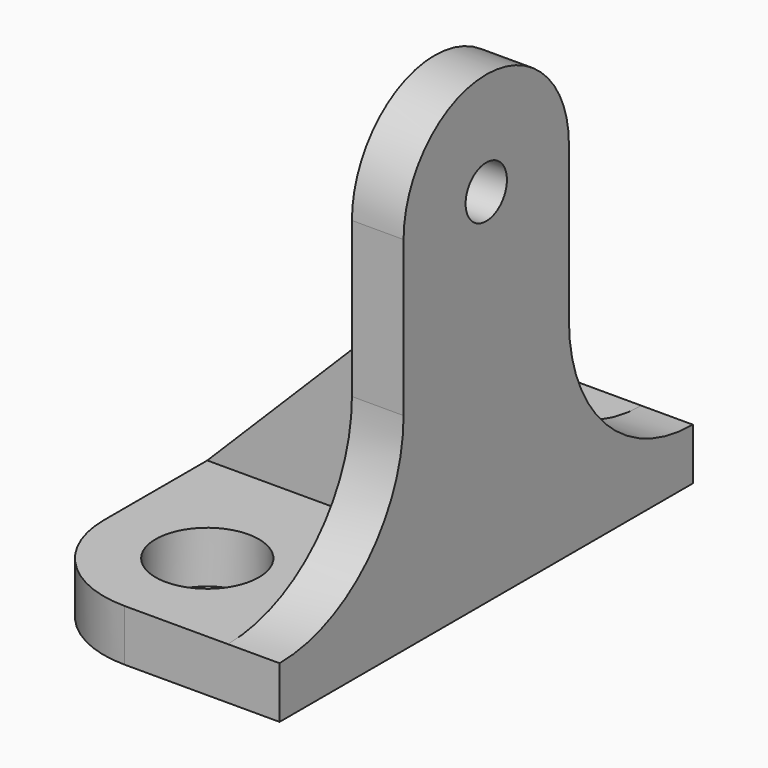
from build123d import *

# Parameters (mm, degrees)
SKETCH002_R  = 5
PAD001_DEPTH = 5
SKETCH003_R  = 2.5
PAD002_DEPTH = 5
PAD003_DEPTH = 2.5


with BuildPart() as part:
    # Sketch002 → Pad001 (new body)
    with BuildSketch(Plane.XY):
        with BuildLine():
            Line((0, 25), (-15, 25))
            ThreePointArc((-15, 25), (-22.071068, 22.071068), (-25, 15))
            Line((-25, 15), (-25, -15))
            ThreePointArc((-25, -15), (-22.071068, -22.071068), (-15, -25))
            Line((-15, -25), (0, -25))
            Line((0, -25), (0, 25))
        make_face()
        with Locations((-15, 15)):
            Circle(SKETCH002_R, mode=Mode.SUBTRACT)
        with Locations((-15, -15)):
            Circle(SKETCH002_R, mode=Mode.SUBTRACT)
    extrude(amount=PAD001_DEPTH)

    # Sketch003 → Pad002 (join)
    with BuildSketch(Plane.YZ):
        with BuildLine():
            ThreePointArc((-25, 5), (-14.393398, 9.393398), (-10, 20))
            Line((-10, 20), (-10, 35))
            ThreePointArc((10, 35), (0, 45), (-10, 35))
            Line((10, 20), (10, 35))
            ThreePointArc((10, 20), (14.393398, 9.393398), (25, 5))
            Line((-25, 5), (25, 5))
        make_face()
        with Locations((0, 35)):
            Circle(SKETCH003_R, mode=Mode.SUBTRACT)
    extrude(amount=-PAD002_DEPTH)

    # Sketch004 → Pad003 (join, symmetric)
    with BuildSketch(Plane.XZ):
        Polygon((-25, 5), (-5, 5), (-5, 25), align=None)
    extrude(amount=PAD003_DEPTH, both=True)


solid = part.part
